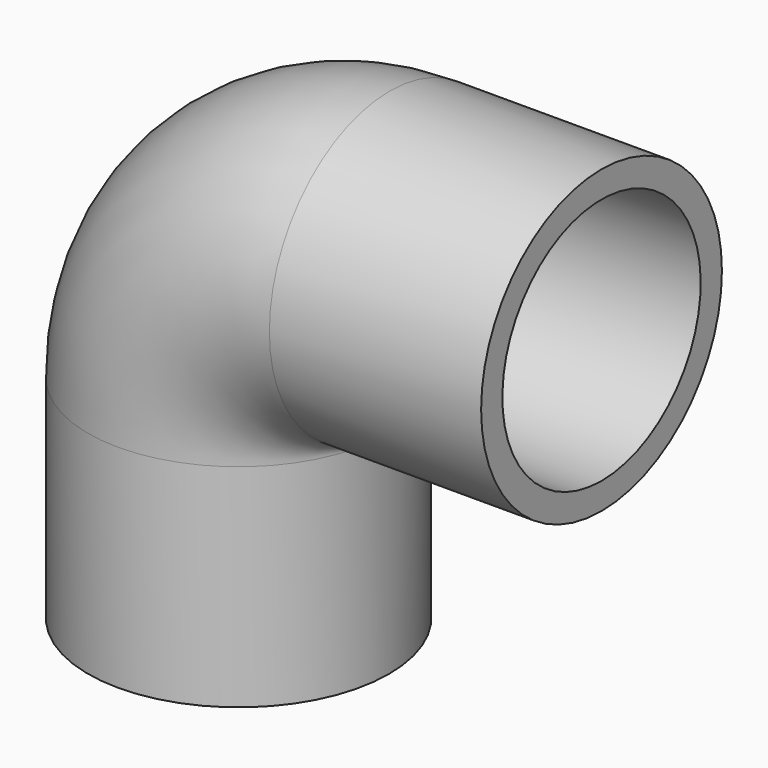
from build123d import *

# Parameters (mm, degrees)
F1_R = 13.49375
F3_R = 11.1125


with BuildPart() as f2:
    # F2: sweep along a path in F0
    with BuildLine(Plane.XZ) as f2_path:
        Line((46.0375, 46.0375), (27.051, 46.0375))
        ThreePointArc((27.051, 46.0375), (7.9230544621, 38.1144455379), (0, 18.9865))
        Line((0, 18.9865), (0, 0))
    # F1 (on Top) → F2 (sweep)
    with BuildSketch(Plane.XY):
        with Locations((13.49375, 0)):
            Circle(F1_R)
    sweep(path=f2_path.line)

    # F4: sweep along a path in F0
    with BuildLine(Plane.XZ) as f4_path:
        Line((46.0375, 46.0375), (27.051, 46.0375))
        ThreePointArc((27.051, 46.0375), (7.9230544621, 38.1144455379), (0, 18.9865))
        Line((0, 18.9865), (0, 0))
    # F3 (on face) → F4 (sweep, cut)
    with BuildSketch(Plane(origin=(0, 0, 0), x_dir=(1, 0, 0), z_dir=(0, 0, -1))):
        with Locations((13.49375, 0)):
            Circle(F3_R)
    sweep(path=f4_path.line, mode=Mode.SUBTRACT)


solid = f2.part
